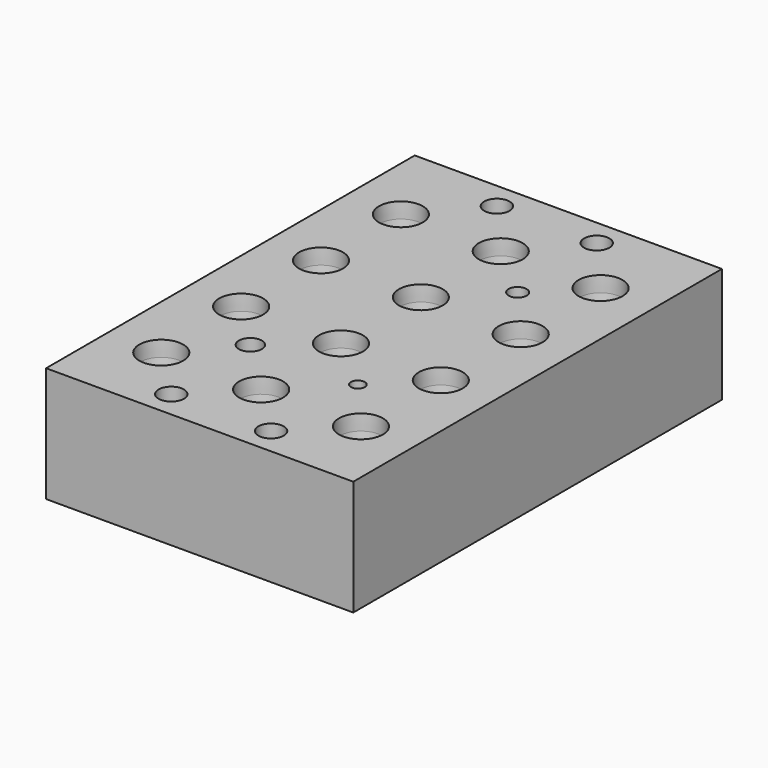
from build123d import *

# Parameters (mm, degrees)
CYLINDER003_R     = 0.9
CYLINDER003_DEPTH = 10
CYLINDER004_R     = 1.175
CYLINDER004_DEPTH = 10
CYLINDER005_R     = 1.5
CYLINDER005_DEPTH = 10
CYLINDER001_R     = 1.65
CYLINDER001_DEPTH = 30
ARRAY002_X_COUNT  = 2
ARRAY002_X_PITCH  = 13
ARRAY002_Y_COUNT  = 2
ARRAY002_Y_PITCH  = 53
ARRAY_X_COUNT     = 3
ARRAY_X_PITCH     = 13
ARRAY_Y_COUNT     = 4
ARRAY_Y_PITCH     = 13
BOX_W             = 40
BOX_H             = 60
BOX_DEPTH         = 15


with BuildPart() as cylinder003:
    # Cylinder003 → Cylinder003 (new body)
    with BuildSketch(Plane(origin=(27, 17, -9), x_dir=(1, 0, 0), z_dir=(0, 0, 1))):
        Circle(CYLINDER003_R)
    extrude(amount=CYLINDER003_DEPTH)


with BuildPart() as cylinder004:
    # Cylinder004 → Cylinder004 (new body)
    with BuildSketch(Plane(origin=(27, 43, -9), x_dir=(1, 0, 0), z_dir=(0, 0, 1))):
        Circle(CYLINDER004_R)
    extrude(amount=CYLINDER004_DEPTH)


with BuildPart() as cylinder005:
    # Cylinder005 → Cylinder005 (new body)
    with BuildSketch(Plane(origin=(13, 17, -9), x_dir=(1, 0, 0), z_dir=(0, 0, 1))):
        Circle(CYLINDER005_R)
    extrude(amount=CYLINDER005_DEPTH)


with BuildPart() as hole_union:
    # Cylinder001 → Cylinder001 (new body)
    with BuildSketch(Plane.XY.offset(-20)):
        Circle(CYLINDER001_R)
    extrude(amount=CYLINDER001_DEPTH)

    # Array002 X: hole union ×2


with BuildPart() as hole_union_1:
    add(hole_union.part)
    with Locations(*[(i * ARRAY002_X_PITCH, 0, 0) for i in range(1, ARRAY002_X_COUNT)]):
        add(hole_union.part)

    # Array002 Y: hole union ×2


with BuildPart() as hole_union_2:
    add(hole_union_1.part)
    with Locations(*[(0, i * ARRAY002_Y_PITCH, 0) for i in range(1, ARRAY002_Y_COUNT)]):
        add(hole_union_1.part)


with BuildPart() as hole_union_3:
    # Array002 placement: moved
    add(hole_union_2.part.moved(Location((13.5, 3.5, 0))))

    # Fusion001: union Cylinder003, Cylinder004, Cylinder005
    add(cylinder003.part)
    add(cylinder004.part)
    add(cylinder005.part)


with BuildPart() as top_cone:
    # Cone → Cone (revolve)
    with BuildSketch(Plane(origin=(0, 0, -7), x_dir=(1, 0, 0), z_dir=(0, -1, 0))):
        Polygon((0, 0), (2.8, 0), (3, 7), (0, 7), align=None)
    revolve(axis=Axis((0, 0, -7), (0, 0, 1)))


with BuildPart() as cone_array:
    # Cone001 → Cone001 (revolve)
    with BuildSketch(Plane(origin=(0, 0, -19), x_dir=(-1, 0, 0), z_dir=(0, 1, 0))):
        Polygon((0, 0), (1.2, 0), (2.8, 12), (0, 12), align=None)
    revolve(axis=Axis((0, 0, -19), (0, 0, 1)))

    # Fusion: union top cone
    add(top_cone.part)


with BuildPart() as cone_array_1:
    # Fusion placement: moved
    add(cone_array.part.moved(Location((0, 0, 5))))

    # Array X: cone array ×3


with BuildPart() as cone_array_2:
    add(cone_array_1.part)
    with Locations(*[(i * ARRAY_X_PITCH, 0, 0) for i in range(1, ARRAY_X_COUNT)]):
        add(cone_array_1.part)

    # Array Y: cone array ×4


with BuildPart() as cone_array_3:
    add(cone_array_2.part)
    with Locations(*[(0, i * ARRAY_Y_PITCH, 0) for i in range(1, ARRAY_Y_COUNT)]):
        add(cone_array_2.part)


with BuildPart() as cone_array_4:
    # Array placement: moved
    add(cone_array_3.part.moved(Location((7, 10, 0))))


with BuildPart() as all_cut:
    # Box → Box (new body)
    with BuildSketch(Plane.XY.offset(-15)):
        with Locations((20, 30)):
            Rectangle(BOX_W, BOX_H)
    extrude(amount=BOX_DEPTH)

    # Cut: cut cone array
    add(cone_array_4.part, mode=Mode.SUBTRACT)

    # Cut001: cut hole union
    add(hole_union_3.part, mode=Mode.SUBTRACT)


solid = all_cut.part
